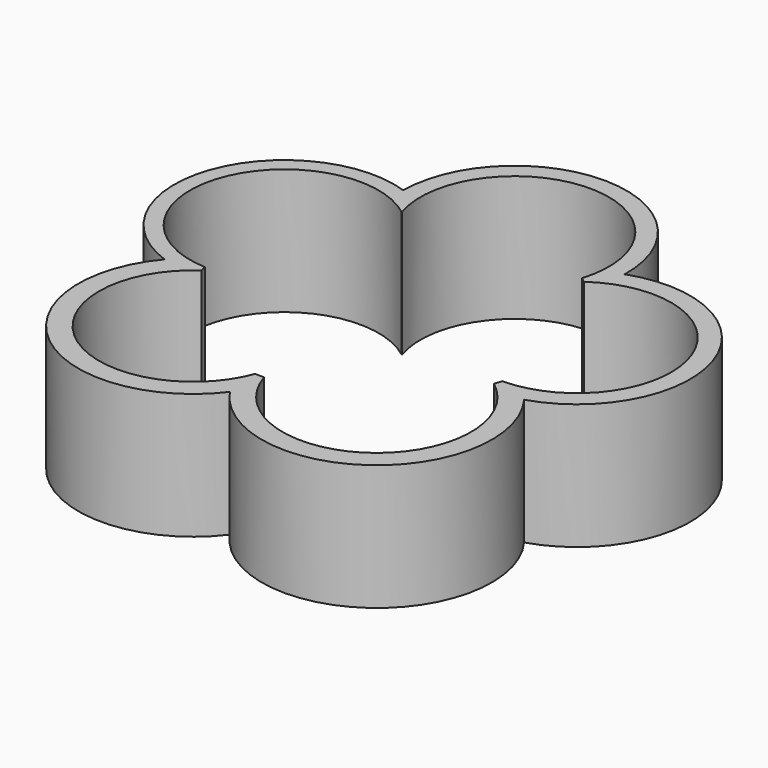
from build123d import *

# Parameters (mm, degrees)
F1_DEPTH = 8


with BuildPart() as f1:
    # F0 (on Top) → F1 (new body)
    with BuildSketch(Plane.XY):
        with BuildLine():
            ThreePointArc((-7.122324, 10.043351), (-16.005927, 5.729354), (-11.736746, -3.175874))
            ThreePointArc((-11.736746, -3.175874), (-10.70081, -13.614279), (-0.295132, -12.289397))
            ThreePointArc((-0.295132, -12.289397), (10.004425, -14.146571), (11.653148, -3.811597))
            ThreePointArc((11.653148, -3.811597), (16.353974, 5.33282), (7.121026, 9.857284))
            ThreePointArc((7.121026, 9.857284), (0.093036, 17.121848), (-7.122324, 10.043351))
        make_face()
        with BuildLine():
            ThreePointArc((-9.55336, -2.955216), (-9.610392, -2.764121), (-9.663601, -2.571927))
            ThreePointArc((-9.663601, -2.571927), (-15.033968, 5.475381), (-5.746216, 8.184192))
            ThreePointArc((-5.746216, 8.184192), (-5.734931, 8.192104), (-5.723635, 8.2))
            ThreePointArc((-5.723635, 8.2), (0, 16), (5.723635, 8.2))
            ThreePointArc((5.723635, 8.2), (5.887979, 8.082803), (6.049924, 7.962313))
            ThreePointArc((6.049924, 7.962313), (15.22924, 4.906145), (9.560047, -2.933514))
            ThreePointArc((9.560047, -2.933514), (9.484865, -3.168175), (9.403925, -3.400912))
            ThreePointArc((9.403925, -3.400912), (9.223456, -13.073938), (0.050118, -9.999874))
            ThreePointArc((0.050118, -9.999874), (-0.23504, -9.997237), (-0.520007, -9.98647))
            ThreePointArc((-0.520007, -9.98647), (-9.827676, -12.626036), (-9.55336, -2.955216))
        make_face(mode=Mode.SUBTRACT)
    extrude(amount=F1_DEPTH)


solid = f1.part
